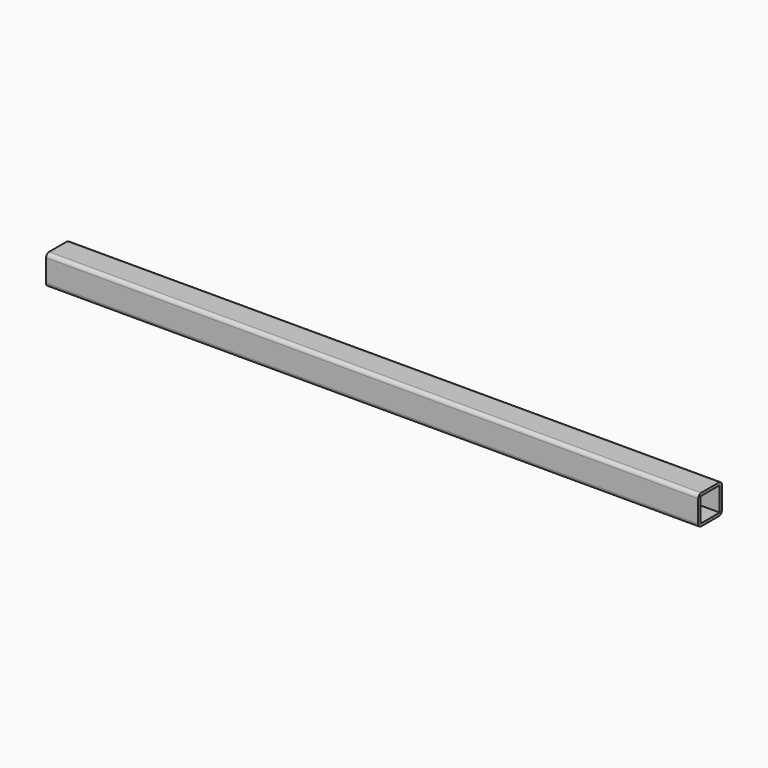
from build123d import *

# Parameters (mm, degrees)
F0_W     = 41.275
F0_H     = 41.275
F1_DEPTH = 558.8


with BuildPart() as f1:
    # F0 (on Right) → F1 (new body, symmetric)
    with BuildSketch(Plane.YZ):
        with BuildLine():
            Line((-19.05, -25.4), (19.05, -25.4))
            ThreePointArc((19.05, -25.4), (23.5401280605, -23.5401280605), (25.4, -19.05))
            Line((25.4, -19.05), (25.4, 19.05))
            ThreePointArc((25.4, 19.05), (23.5401280605, 23.5401280605), (19.05, 25.4))
            Line((19.05, 25.4), (-19.05, 25.4))
            ThreePointArc((-19.05, 25.4), (-23.5401280605, 23.5401280605), (-25.4, 19.05))
            Line((-25.4, 19.05), (-25.4, -19.05))
            ThreePointArc((-25.4, -19.05), (-23.5401280605, -23.5401280605), (-19.05, -25.4))
        make_face()
        Rectangle(F0_W, F0_H, mode=Mode.SUBTRACT)
    extrude(amount=F1_DEPTH, both=True)


solid = f1.part
